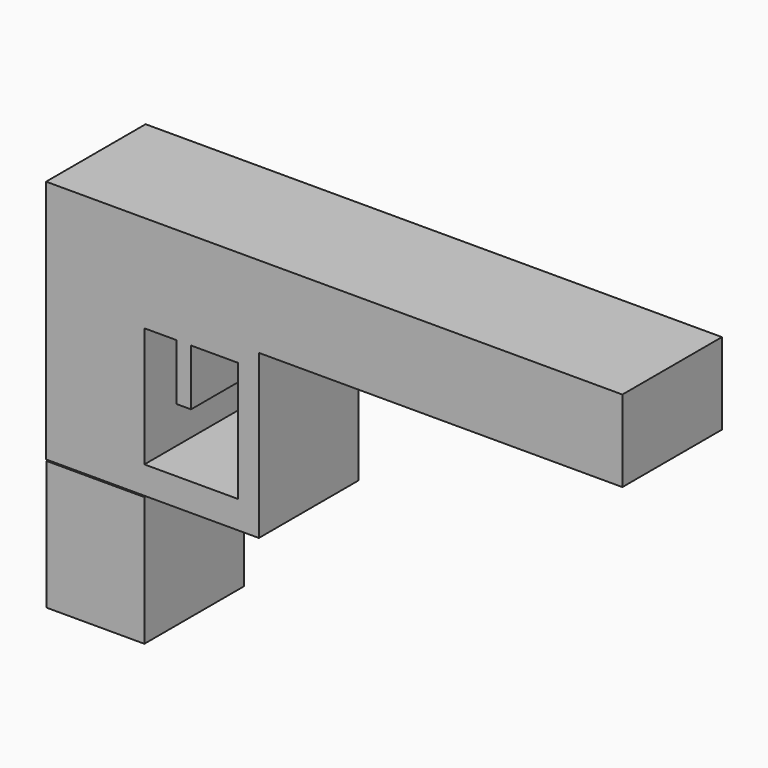
from build123d import *

# Parameters (mm, degrees)
F0_W      = 119.1671006382
F0_H      = 49.9144960195
F2_DEPTH  = 25.4
F0_W_2    = 0.7340870798
F0_H_2    = 0.2446807921
F1_W      = 75.4855722189
F1_H      = 33.2763304468
F3_DEPTH  = 25.654
F4_DEPTH  = 1.524
F5_W      = 19.0849574283
F5_H      = 24.4678892195
F6_DEPTH  = 52.324
F8_DEPTH  = 25.4
F9_W      = 2.946536988
F9_H      = 13.5136300232
F10_DEPTH = 25.4


with BuildPart() as f2:
    # F0 (on Front) → F2 (new body)
    with BuildSketch(Plane.XZ):
        with Locations((16.1467138678, -5.1382565871)):
            Rectangle(F0_W, F0_H)
    extrude(amount=F2_DEPTH)

    # F1 (on Front) → F3 (cut)
    with BuildSketch(Plane.XZ):
        with Locations((37.7427861094, -13.4573393734)):
            Rectangle(F1_W, F1_H)
    extrude(amount=F3_DEPTH, mode=Mode.SUBTRACT)

    # F4 (cut): a face of the model
    f4_faces = [f2.faces().sort_by_distance(p)[0] for p in [
        (75.7302641869, -12.7, -5.1382565871),
    ]]
    extrude(f4_faces, amount=-F4_DEPTH, mode=Mode.SUBTRACT)

    # F5 (on Front) → F6 (cut)
    with BuildSketch(Plane.XZ):
        with Locations((-13.8243581168, -12.2339446098)):
            Rectangle(F5_W, F5_H)
    extrude(amount=F6_DEPTH, mode=Mode.SUBTRACT)

    # F9 (on Front) → F10 (join)
    with BuildSketch(Plane.XZ):
        with Locations((-15.3217632324, -4.7247168841)):
            Rectangle(F9_W, F9_H)
    extrude(amount=F10_DEPTH)


with BuildPart() as f2b:
    # F0 (on Front) → F2, piece 2 (new body)
    with BuildSketch(Plane.XZ):
        with Locations((-35.4842077941, -49.0581188351)):
            Rectangle(F0_W_2, F0_H_2)
    extrude(amount=F2_DEPTH)

    # F7 (on Front) → F8 (join)
    with BuildSketch(Plane.XZ):
        Polygon((-23.3724564314, -39.6527908742), (-23.3724564314, -30.3523428738), (-43.3641932905, -30.3523428738), (-43.3641932905, -56.7100383341), (-23.3724564314, -56.7100383341), (-23.3724564314, -41.9807769358), align=None)
    extrude(amount=F8_DEPTH)


solid = Compound([f2.part, f2b.part])
